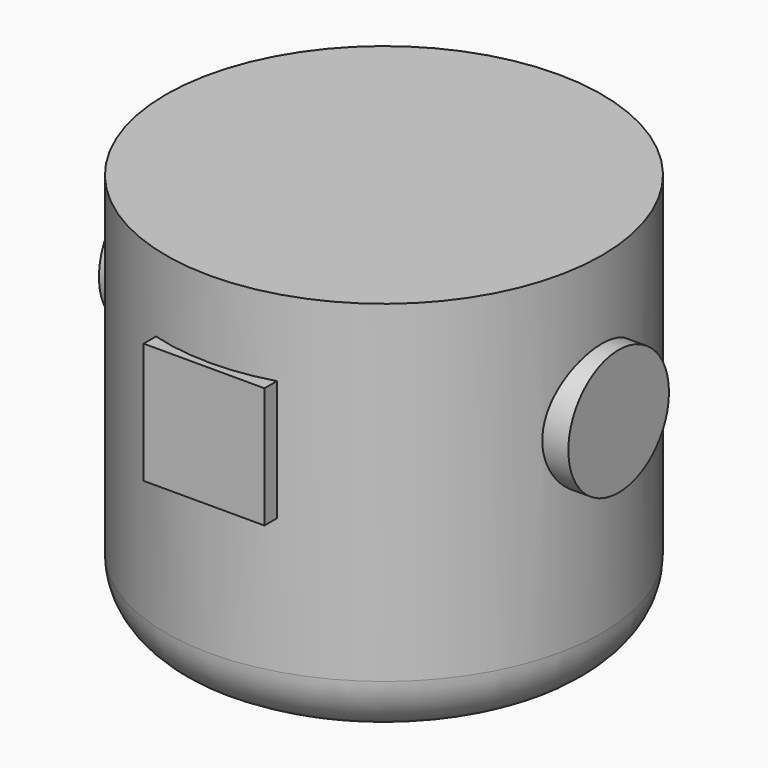
from build123d import *

# Parameters (mm, degrees)
F0_R     = 56.608294
F1_DEPTH = 101.6
F2_R     = 15.24
F3_W     = 31.386364
F3_H     = 31.386374
F4_DEPTH = 58.42
F5_R     = 16.335197
F6_DEPTH = 60.96


with BuildPart() as f1:
    # F0 (on Top) → F1 (new body)
    with BuildSketch(Plane.XY):
        Circle(F0_R)
    extrude(amount=F1_DEPTH)

    # F2
    f2_edges = [f1.edges().sort_by_distance(p)[0] for p in [
        (-56.608294, 0, 0),
    ]]
    fillet(f2_edges, radius=F2_R)

    # F3 (on Front) → F4 (join)
    with BuildSketch(Plane.XZ):
        with Locations((0, 65.980129)):
            Rectangle(F3_W, F3_H)
    extrude(amount=F4_DEPTH)

    # F5 (on Right) → F6 (join, symmetric)
    with BuildSketch(Plane.YZ):
        with Locations((0, 65.102533)):
            Circle(F5_R)
    extrude(amount=F6_DEPTH, both=True)


solid = f1.part
